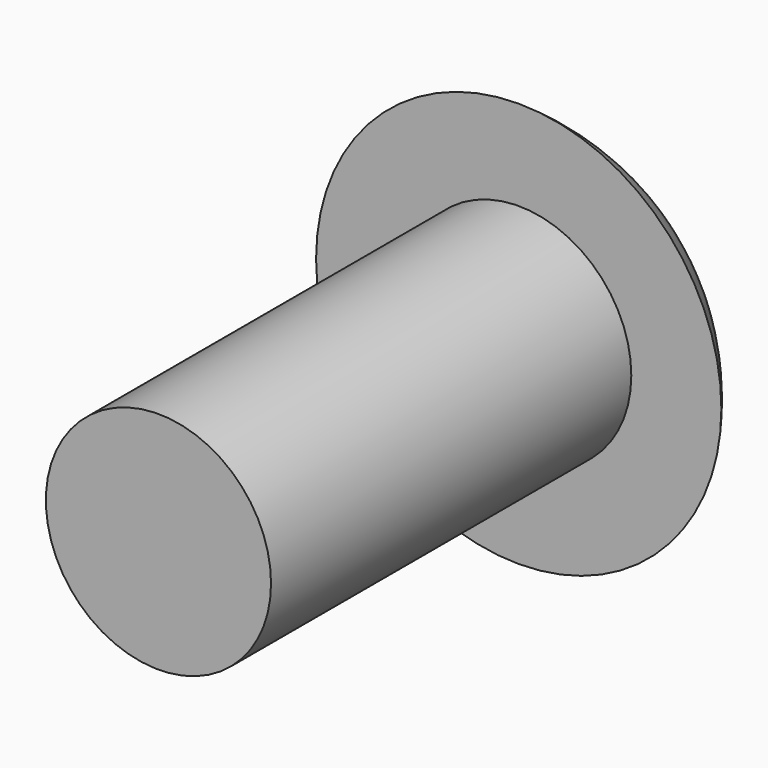
from build123d import *

# Parameters (mm, degrees)
F3_W     = 10.16
F3_H     = 2.54
F4_DEPTH = 22.5552


with BuildPart() as f1:
    # F0 (on Top) → F1 (revolve)
    with BuildSketch(Plane.XY):
        with BuildLine():
            Line((0, 15.875), (0, 0))
            Line((0, 0), (3.175, 0))
            Line((3.175, 0), (3.175, 12.7))
            Line((3.175, 12.7), (5.715, 12.7))
            ThreePointArc((5.715, 12.7), (3.220657, 14.941182), (0, 15.875))
        make_face()
    revolve(axis=Axis((0, 7.9375, 0), (0, -1, 0)))

    # F3 (on offset) → F4 (cut)
    with BuildSketch(Plane.XZ.offset(-14.097)):
        Rectangle(F3_W, F3_H)
    extrude(amount=-F4_DEPTH, mode=Mode.SUBTRACT)


solid = f1.part
